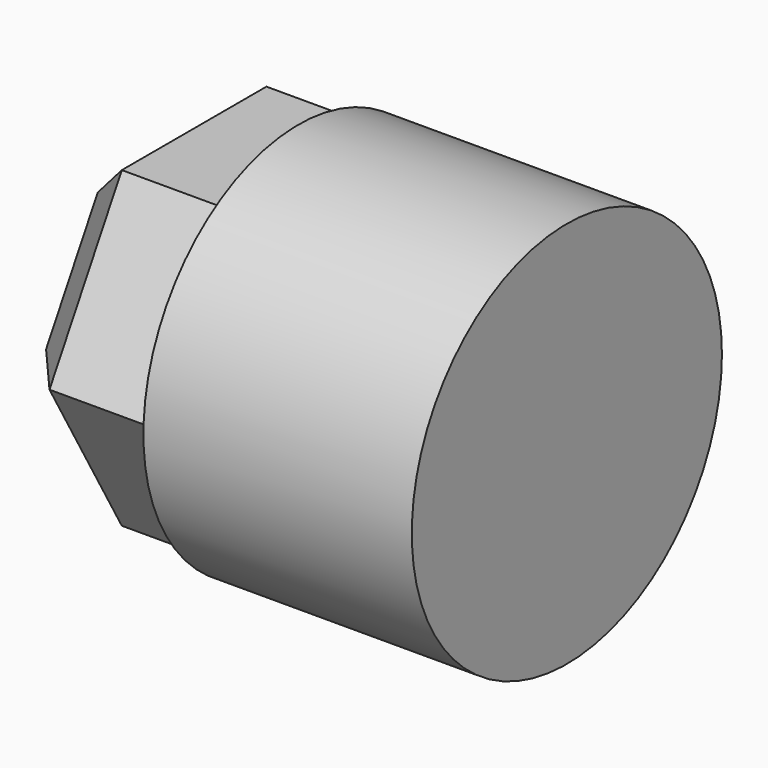
from build123d import *

# Parameters (mm, degrees)
F0_R     = 1.3
F1_DEPTH = 1.8
F3_DEPTH = 1
F4_SIZE  = 0.3


with BuildPart() as f1:
    # F0 (on Right) → F1 (new body)
    with BuildSketch(Plane.YZ):
        Circle(F0_R)
    extrude(amount=F1_DEPTH)

    # F2 (on Right) → F3 (join)
    with BuildSketch(Plane.YZ):
        Polygon((0.606218, 1.05), (-0.606218, 1.05), (-1.212436, 0), (-0.606218, -1.05), (0.606218, -1.05), (1.212436, 0), align=None)
    extrude(amount=-F3_DEPTH)

    # F4
    f4_edges = [f1.edges().sort_by_distance(p)[0] for p in [
        (-1, 0, 1.05),
        (-1, -0.909327, 0.525),
        (-1, -0.909327, -0.525),
        (-1, 0, -1.05),
        (-1, 0.909327, -0.525),
        (-1, 0.909327, 0.525),
    ]]
    chamfer(f4_edges, length=F4_SIZE)


solid = f1.part
